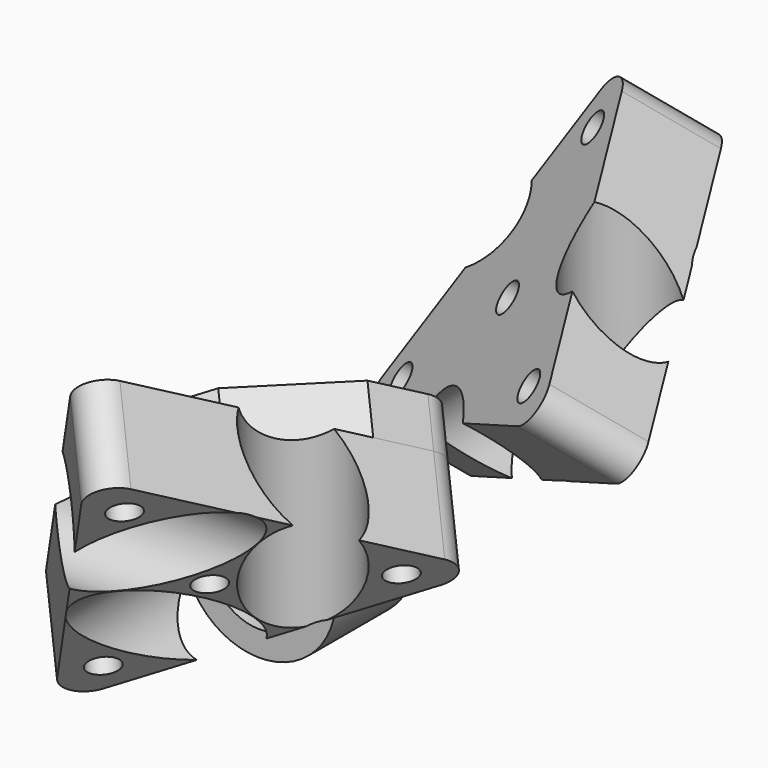
from build123d import *

# Parameters (mm, degrees)
F0_R      = 10.25
F1_DEPTH  = 100
F2_R      = 10.25
F3_DEPTH  = 100
F4_R      = 10.2
F5_DEPTH  = 100
F7_R      = 0.5
F8_DEPTH  = 5
F9_R      = 0.5
F10_DEPTH = 5
F11_R     = 0.5
F12_DEPTH = 5
F13_R     = 3.05
F14_DEPTH = 20
F16_R     = 5
F17_DEPTH = 1
F21_R     = 15.2
F22_DEPTH = 20
F27_DEPTH = 50
F24_R     = 3.05
F28_DEPTH = 10


with BuildPart() as f1:
    # F0 (on Top) → F1 (new body, symmetric)
    with BuildSketch(Plane.XY):
        with Locations((10.25, 10.25)):
            Circle(F0_R)
    extrude(amount=F1_DEPTH, both=True)



with BuildPart() as f3:
    # F2 (on Right) → F3 (new body, symmetric)
    with BuildSketch(Plane.YZ):
        with Locations((-10.25, 10.25)):
            Circle(F2_R)
    extrude(amount=F3_DEPTH, both=True)



with BuildPart() as f5:
    # F4 (on Front) → F5 (new body, symmetric)
    with BuildSketch(Plane.XZ):
        with Locations((-10.2, -10.2)):
            Circle(F4_R)
    extrude(amount=F5_DEPTH, both=True)


with BuildPart() as f3_1:
    add(f3.part)

    add(f5.part)  # F8 merges F5
    # F7 (on Top) → F8 (join, symmetric)
    with BuildSketch(Plane.XY):
        with Locations((-10.2, -10.25)):
            Circle(F7_R)
    extrude(amount=F8_DEPTH, both=True)


with BuildPart() as f1_1:
    add(f1.part)

    add(f3_1.part)  # F10 merges F3
    # F9 (on Right) → F10 (join, symmetric)
    with BuildSketch(Plane.YZ):
        with Locations((10.25, -10.2)):
            Circle(F9_R)
    extrude(amount=F10_DEPTH, both=True)

    # F11 (on Front) → F12 (join, symmetric)
    with BuildSketch(Plane.XZ):
        with Locations((10.25, 10.25)):
            Circle(F11_R)
    extrude(amount=F12_DEPTH, both=True)


with BuildPart() as f14:
    # F13 (on 3pt) → F14 (new body)
    with BuildSketch(Plane(origin=(0, 0, 0), x_dir=(-0.8164965809, -0.4082482905, -0.4082482905), z_dir=(-0.5773502692, 0.5773502692, 0.5773502692))):
        Polygon((38.1051177665, -22), (0, 44), (-38.1051177665, -22), align=None)
        with Locations((-25.9807621135, -15)):
            Circle(F13_R, mode=Mode.SUBTRACT)
        with Locations((25.9807621135, -15)):
            Circle(F13_R, mode=Mode.SUBTRACT)
        Circle(F13_R, mode=Mode.SUBTRACT)
        with Locations((0, 30)):
            Circle(F13_R, mode=Mode.SUBTRACT)
    extrude(amount=F14_DEPTH)

    # F15: cut F1
    add(f1_1.part, mode=Mode.SUBTRACT)

    # F16
    f16_edges = [f14.edges().sort_by_distance(p)[0] for p in [
        (-5.773503, -25.339196, 36.886201),
        (-36.886201, 5.773503, -25.339196),
        (25.339196, 36.886201, 5.773503),
    ]]
    fillet(f16_edges, radius=F16_R)

    # F13 (on 3pt) → F17 (cut)
    with BuildSketch(Plane(origin=(0, 0, 0), x_dir=(-0.8164965809, -0.4082482905, -0.4082482905), z_dir=(-0.5773502692, 0.5773502692, 0.5773502692))):
        Polygon((38.1051177665, -22), (0, 44), (-38.1051177665, -22), align=None)
        with Locations((-25.9807621135, -15)):
            Circle(F13_R, mode=Mode.SUBTRACT)
        with Locations((25.9807621135, -15)):
            Circle(F13_R, mode=Mode.SUBTRACT)
        Circle(F13_R, mode=Mode.SUBTRACT)
        with Locations((0, 30)):
            Circle(F13_R, mode=Mode.SUBTRACT)
    extrude(amount=F17_DEPTH, mode=Mode.SUBTRACT)


with BuildPart() as f18_1:
    # F18: instance of F14
    add(f14.part.mirror(Plane.XZ))


with BuildPart() as f18_1_1:
    # F19: moved
    add(f18_1.part.moved(Location((0, 100, 0))))


with BuildPart() as f22:
    # F21 (on offset) → F22 (new body)
    with BuildSketch(Plane.XZ.offset(-25)):
        with Locations((-10.2, -10.2)):
            Circle(F21_R)
        with BuildLine():
            ThreePointArc((-20.2310823189, -8.3513822698), (-14.7615786741, -1.0768426518), (-5.6602447928, -1.0659635068))
            ThreePointArc((-5.6602447928, -1.0659635068), (-5.6384213259, -19.3231573482), (-20.2310823189, -8.3513822698))
        make_face(mode=Mode.SUBTRACT)
    extrude(amount=-F22_DEPTH)

    # F23: cut F14
    add(f14.part, mode=Mode.SUBTRACT)


with BuildPart() as f27:
    # F26 (on plane+point) → F27 (new body, symmetric)
    with BuildSketch(Plane.XZ.offset(-22.1536071016)):
        with BuildLine():
            Line((-9.25, 11.5470053838), (-0.75, 11.5470053838))
            ThreePointArc((-0.75, 11.5470053838), (-5, 15.7970053838), (-9.25, 11.5470053838))
        make_face()
        with BuildLine():
            ThreePointArc((-9.25, 11.5470053838), (-5, 7.2970053838), (-0.75, 11.5470053838))
            Line((-0.75, 11.5470053838), (-9.25, 11.5470053838))
        make_face()
    extrude(amount=F27_DEPTH, both=True)


with BuildPart() as f28:
    # F24 (on face) → F28 (new body)
    with BuildSketch(Plane(origin=(-11.5470053838, 11.5470053838, 11.5470053838), x_dir=(-0.8164965809, -0.4082482905, -0.4082482905), z_dir=(-0.5773502692, 0.5773502692, 0.5773502692))):
        with BuildLine():
            Line((-29.4448637287, -22), (-18.1051177665, -22))
            Line((-18.1051177665, -22), (2.124355653, -10.3205080757))
            Line((2.124355653, -10.3205080757), (7.7942286341, -0.5))
            ThreePointArc((7.7942286341, -0.5), (7.7942286341, 4.5), (3.4641016151, 7))
            Line((3.4641016151, 7), (-7.875644347, 7))
            Line((-7.875644347, 7), (-28.1051177665, -4.6794919243))
            Line((-28.1051177665, -4.6794919243), (-33.7749907476, -14.5))
            ThreePointArc((-33.7749907476, -14.5), (-33.7749907476, -19.5), (-29.4448637287, -22))
        make_face()
        with Locations((-25.9807621135, -15)):
            Circle(F24_R, mode=Mode.SUBTRACT)
        Circle(F24_R, mode=Mode.SUBTRACT)
    extrude(amount=F28_DEPTH)

    # F29: cut F27
    add(f27.part, mode=Mode.SUBTRACT)


solid = Compound([f14.part, f18_1_1.part, f22.part, f28.part])
